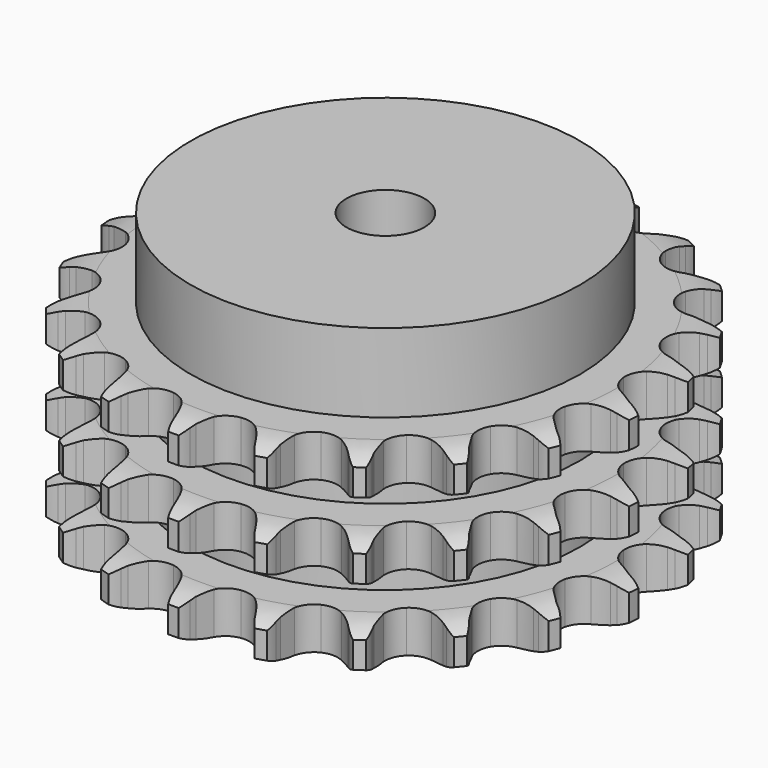
from build123d import *

# Parameters (mm, degrees)
PAD_DEPTH         = 49.8
SKETCH001_R       = 50
PAD001_DEPTH      = 70
SKETCH002_R       = 10
POCKET_DEPTH      = 0.001
POCKET_DEPTH_BACK = 70.001


with BuildPart() as part:
    # Sprocket → Pad (new body)
    with BuildSketch(Plane.XY):
        with BuildLine():
            ThreePointArc((-10.414973, 69.098829), (-8.724114, 67.329966), (-7.515976, 65.201991))
            Line((-7.515976, 65.201991), (-6.933334, 63.79702))
            ThreePointArc((-6.933334, 63.79702), (-5.997831, 61.908917), (-4.8188, 60.162498))
            ThreePointArc((-4.8188, 60.162498), (-2.682336, 58.425798), (0, 57.804771))
            ThreePointArc((0, 57.804771), (2.682336, 58.425798), (4.8188, 60.162498))
            ThreePointArc((4.8188, 60.162498), (5.997831, 61.908917), (6.933334, 63.79702))
            Line((6.933334, 63.79702), (7.515976, 65.201991))
            ThreePointArc((7.515976, 65.201991), (8.724114, 67.329966), (10.414973, 69.098829))
            ThreePointArc((10.414973, 69.098829), (11.50933, 66.910163), (12.036562, 64.520622))
            Line((12.036562, 64.520622), (12.179197, 63.006333))
            ThreePointArc((12.179197, 63.006333), (12.516609, 60.92637), (13.128493, 58.910013))
            ThreePointArc((13.128493, 58.910013), (14.658139, 56.620737), (17.038255, 55.236667))
            ThreePointArc((17.038255, 55.236667), (19.784474, 55.039472), (22.337922, 56.069281))
            Line((22.337922, 56.069281), (25.429807, 58.919061))
            ThreePointArc((25.429807, 58.919061), (25.901113, 59.516189), (26.400686, 60.089876))
            ThreePointArc((26.400686, 60.089876), (28.182382, 61.767207), (30.319502, 62.959095))
            ThreePointArc((30.319502, 62.959095), (30.720119, 60.545097), (30.519599, 58.106313))
            Line((30.519599, 58.106313), (30.209552, 56.617257))
            ThreePointArc((30.209552, 56.617257), (29.918894, 54.530247), (29.909262, 52.423115))
            ThreePointArc((29.909262, 52.423115), (30.696174, 49.784674), (32.562587, 47.760543))
            ThreePointArc((32.562587, 47.760543), (35.128674, 46.762646), (37.872221, 46.994062))
            Line((37.872221, 46.994062), (41.66673, 48.805885))
            ThreePointArc((41.66673, 48.805885), (42.293104, 49.237564), (42.93958, 49.638513))
            ThreePointArc((42.93958, 49.638513), (45.136522, 50.71616), (47.530011, 51.225169))
            ThreePointArc((47.530011, 51.225169), (47.201291, 48.800335), (46.290835, 46.529003))
            Line((46.290835, 46.529003), (45.555656, 45.19749))
            ThreePointArc((45.555656, 45.19749), (44.662754, 43.288872), (44.032462, 41.278194))
            ThreePointArc((44.032462, 41.278194), (44.006719, 38.525024), (45.19359, 36.040685))
            ThreePointArc((45.19359, 36.040685), (47.351538, 34.330755), (50.041408, 33.743214))
            Line((50.041408, 33.743214), (54.201381, 34.356093))
            ThreePointArc((54.201381, 34.356093), (54.927167, 34.583966), (55.663103, 34.77655))
            ThreePointArc((55.663103, 34.77655), (58.080084, 35.15876), (60.517269, 34.939662))
            ThreePointArc((60.517269, 34.939662), (59.488421, 32.719448), (57.948927, 30.817387))
            Line((57.948927, 30.817387), (56.85394, 29.761727))
            ThreePointArc((56.85394, 29.761727), (55.438132, 28.201091), (54.243185, 26.465523))
            ThreePointArc((54.243185, 26.465523), (53.407075, 23.842257), (53.808944, 21.118454))
            ThreePointArc((53.808944, 21.118454), (55.36701, 18.848425), (57.764195, 17.494134))
            Line((57.764195, 17.494134), (61.920002, 16.85361))
            ThreePointArc((61.920002, 16.85361), (62.68071, 16.857431), (63.440716, 16.824537))
            ThreePointArc((63.440716, 16.824537), (65.862975, 16.47735), (68.127303, 15.549612))
            ThreePointArc((68.127303, 15.549612), (66.489744, 13.731295), (64.458003, 12.367511))
            Line((64.458003, 12.367511), (63.100502, 11.681504))
            ThreePointArc((63.100502, 11.681504), (61.287589, 10.607519), (59.634162, 9.301275))
            ThreePointArc((59.634162, 9.301275), (58.061977, 7.041001), (57.643137, 4.319756))
            ThreePointArc((57.643137, 4.319756), (58.462879, 1.691329), (60.354381, -0.309377))
            Line((60.354381, -0.309377), (64.136759, -2.146389))
            ThreePointArc((64.136759, -2.146389), (64.864797, -2.366961), (65.581342, -2.622409))
            ThreePointArc((65.581342, -2.622409), (67.793652, -3.668145), (69.683927, -5.222088))
            ThreePointArc((69.683927, -5.222088), (67.583162, -6.476945), (65.239703, -7.181273))
            Line((65.239703, -7.181273), (63.740307, -7.436672))
            ThreePointArc((63.740307, -7.436672), (61.691375, -7.928577), (59.726382, -8.689432))
            ThreePointArc((59.726382, -8.689432), (57.557818, -10.385879), (56.355485, -12.862772))
            ThreePointArc((56.355485, -12.862772), (56.364066, -15.616048), (57.581815, -18.085398))
            Line((57.581815, -18.085398), (60.654683, -20.955673))
            ThreePointArc((60.654683, -20.955673), (61.285362, -21.381038), (61.894779, -21.836342))
            ThreePointArc((61.894779, -21.836342), (63.700565, -23.487709), (65.048828, -25.529784))
            ThreePointArc((65.048828, -25.529784), (62.671518, -26.109679), (60.224568, -26.091969))
            Line((60.224568, -26.091969), (58.716507, -25.894067))
            ThreePointArc((58.716507, -25.894067), (56.613611, -25.760184), (54.511652, -25.908046))
            ThreePointArc((54.511652, -25.908046), (51.939394, -26.889928), (50.0604, -28.902385))
            ThreePointArc((50.0604, -28.902385), (49.257058, -31.535871), (49.692851, -34.254452))
            Line((49.692851, -34.254452), (51.783173, -37.902953))
            ThreePointArc((51.783173, -37.902953), (52.260453, -38.495316), (52.708592, -39.110021))
            ThreePointArc((52.708592, -39.110021), (53.947404, -41.220288), (54.633855, -43.569046))
            ThreePointArc((54.633855, -43.569046), (52.191236, -43.422453), (49.858217, -42.684279))
            Line((49.858217, -42.684279), (48.475487, -42.05066))
            ThreePointArc((48.475487, -42.05066), (46.505479, -41.302886), (44.453321, -40.824615))
            ThreePointArc((44.453321, -40.824615), (41.705927, -41.004689), (39.317229, -42.373896))
            ThreePointArc((39.317229, -42.373896), (37.773344, -44.653593), (37.38846, -47.379848))
            Line((37.38846, -47.379848), (38.3105, -51.482389))
            ThreePointArc((38.3105, -51.482389), (38.591975, -52.189116), (38.839016, -52.908603))
            ThreePointArc((38.839016, -52.908603), (39.400779, -55.290262), (39.364425, -57.737007))
            ThreePointArc((39.364425, -57.737007), (37.073533, -56.876952), (35.061744, -55.483904))
            Line((35.061744, -55.483904), (33.927207, -54.470868))
            ThreePointArc((33.927207, -54.470868), (32.265132, -53.175646), (30.445118, -52.113739))
            ThreePointArc((30.445118, -52.113739), (27.766705, -51.476003), (25.08055, -52.080299))
            ThreePointArc((25.08055, -52.080299), (22.933302, -53.803648), (21.761941, -56.295337))
            Line((21.761941, -56.295337), (21.433772, -60.487389))
            ThreePointArc((21.433772, -60.487389), (21.494429, -61.245685), (21.518423, -62.006023))
            ThreePointArc((21.518423, -62.006023), (21.353222, -64.447455), (20.597292, -66.774781))
            ThreePointArc((20.597292, -66.774781), (18.661684, -65.277684), (17.149881, -63.35354))
            Line((17.149881, -63.35354), (16.364346, -62.0511))
            ThreePointArc((16.364346, -62.0511), (15.157886, -60.323516), (13.731733, -58.772328))
            ThreePointArc((13.731733, -58.772328), (11.36029, -57.373449), (8.615354, -57.159139))
            ThreePointArc((8.615354, -57.159139), (6.055537, -58.173012), (4.201777, -60.208737))
            Line((4.201777, -60.208737), (2.652558, -64.117819))
            ThreePointArc((2.652558, -64.117819), (2.48701, -64.860305), (2.285824, -65.593936))
            ThreePointArc((2.285824, -65.593936), (1.408338, -67.878208), (0, -69.879324))
            ThreePointArc((0, -69.879324), (-1.408338, -67.878208), (-2.285824, -65.593936))
            Line((-2.285824, -65.593936), (-2.652558, -64.117819))
            ThreePointArc((-2.652558, -64.117819), (-3.296205, -62.111376), (-4.201777, -60.208737))
            ThreePointArc((-4.201777, -60.208737), (-6.055537, -58.173012), (-8.615354, -57.159139))
            ThreePointArc((-8.615354, -57.159139), (-11.36029, -57.373449), (-13.731733, -58.772328))
            Line((-13.731733, -58.772328), (-16.364346, -62.0511))
            ThreePointArc((-16.364346, -62.0511), (-16.741392, -62.711802), (-17.149881, -63.35354))
            ThreePointArc((-17.149881, -63.35354), (-18.661684, -65.277684), (-20.597292, -66.774781))
            ThreePointArc((-20.597292, -66.774781), (-21.353222, -64.447455), (-21.518423, -62.006023))
            Line((-21.518423, -62.006023), (-21.433772, -60.487389))
            ThreePointArc((-21.433772, -60.487389), (-21.457413, -58.380369), (-21.761941, -56.295337))
            ThreePointArc((-21.761941, -56.295337), (-22.933302, -53.803648), (-25.08055, -52.080299))
            ThreePointArc((-25.08055, -52.080299), (-27.766705, -51.476003), (-30.445118, -52.113739))
            Line((-30.445118, -52.113739), (-33.927207, -54.470868))
            ThreePointArc((-33.927207, -54.470868), (-34.482247, -54.991081), (-35.061744, -55.483904))
            ThreePointArc((-35.061744, -55.483904), (-37.073533, -56.876952), (-39.364425, -57.737007))
            ThreePointArc((-39.364425, -57.737007), (-39.400779, -55.290262), (-38.839016, -52.908603))
            Line((-38.839016, -52.908603), (-38.3105, -51.482389))
            ThreePointArc((-38.3105, -51.482389), (-37.712036, -49.462009), (-37.38846, -47.379848))
            ThreePointArc((-37.38846, -47.379848), (-37.773344, -44.653593), (-39.317229, -42.373896))
            ThreePointArc((-39.317229, -42.373896), (-41.705927, -41.004689), (-44.453321, -40.824615))
            Line((-44.453321, -40.824615), (-48.475487, -42.05066))
            ThreePointArc((-48.475487, -42.05066), (-49.159203, -42.384161), (-49.858217, -42.684279))
            ThreePointArc((-49.858217, -42.684279), (-52.191236, -43.422453), (-54.633855, -43.569046))
            ThreePointArc((-54.633855, -43.569046), (-53.947404, -41.220288), (-52.708592, -39.110021))
            Line((-52.708592, -39.110021), (-51.783173, -37.902953))
            ThreePointArc((-51.783173, -37.902953), (-50.61578, -36.148733), (-49.692851, -34.254452))
            ThreePointArc((-49.692851, -34.254452), (-49.257058, -31.535871), (-50.0604, -28.902385))
            ThreePointArc((-50.0604, -28.902385), (-51.939394, -26.889928), (-54.511652, -25.908046))
            Line((-54.511652, -25.908046), (-58.716507, -25.894067))
            ThreePointArc((-58.716507, -25.894067), (-59.468148, -26.011222), (-60.224568, -26.091969))
            ThreePointArc((-60.224568, -26.091969), (-62.671518, -26.109679), (-65.048828, -25.529784))
            ThreePointArc((-65.048828, -25.529784), (-63.700565, -23.487709), (-61.894779, -21.836342))
            Line((-61.894779, -21.836342), (-60.654683, -20.955673))
            ThreePointArc((-60.654683, -20.955673), (-59.022089, -19.623483), (-57.581815, -18.085398))
            ThreePointArc((-57.581815, -18.085398), (-56.364066, -15.616048), (-56.355485, -12.862772))
            ThreePointArc((-56.355485, -12.862772), (-57.557818, -10.385879), (-59.726382, -8.689432))
            Line((-59.726382, -8.689432), (-63.740307, -7.436672))
            ThreePointArc((-63.740307, -7.436672), (-64.493088, -7.327072), (-65.239703, -7.181273))
            ThreePointArc((-65.239703, -7.181273), (-67.583162, -6.476945), (-69.683927, -5.222088))
            ThreePointArc((-69.683927, -5.222088), (-67.793652, -3.668145), (-65.581342, -2.622409))
            Line((-65.581342, -2.622409), (-64.136759, -2.146389))
            ThreePointArc((-64.136759, -2.146389), (-62.184026, -1.354601), (-60.354381, -0.309377))
            ThreePointArc((-60.354381, -0.309377), (-58.462879, 1.691329), (-57.643137, 4.319756))
            ThreePointArc((-57.643137, 4.319756), (-58.061977, 7.041001), (-59.634162, 9.301275))
            Line((-59.634162, 9.301275), (-63.100502, 11.681504))
            ThreePointArc((-63.100502, 11.681504), (-63.787533, 12.00812), (-64.458003, 12.367511))
            ThreePointArc((-64.458003, 12.367511), (-66.489744, 13.731295), (-68.127303, 15.549612))
            ThreePointArc((-68.127303, 15.549612), (-65.862975, 16.47735), (-63.440716, 16.824537))
            Line((-63.440716, 16.824537), (-61.920002, 16.85361))
            ThreePointArc((-61.920002, 16.85361), (-59.82064, 17.034644), (-57.764195, 17.494134))
            ThreePointArc((-57.764195, 17.494134), (-55.36701, 18.848425), (-53.808944, 21.118454))
            ThreePointArc((-53.808944, 21.118454), (-53.407075, 23.842257), (-54.243185, 26.465523))
            Line((-54.243185, 26.465523), (-56.85394, 29.761727))
            ThreePointArc((-56.85394, 29.761727), (-57.414177, 30.276339), (-57.948927, 30.817387))
            ThreePointArc((-57.948927, 30.817387), (-59.488421, 32.719448), (-60.517269, 34.939662))
            ThreePointArc((-60.517269, 34.939662), (-58.080084, 35.15876), (-55.663103, 34.77655))
            Line((-55.663103, 34.77655), (-54.201381, 34.356093))
            ThreePointArc((-54.201381, 34.356093), (-52.141927, 33.910285), (-50.041408, 33.743214))
            ThreePointArc((-50.041408, 33.743214), (-47.351538, 34.330755), (-45.19359, 36.040685))
            ThreePointArc((-45.19359, 36.040685), (-44.006719, 38.525024), (-44.032462, 41.278194))
            Line((-44.032462, 41.278194), (-45.555656, 45.19749))
            ThreePointArc((-45.555656, 45.19749), (-45.939318, 45.854372), (-46.290835, 46.529003))
            ThreePointArc((-46.290835, 46.529003), (-47.201291, 48.800335), (-47.530011, 51.225169))
            ThreePointArc((-47.530011, 51.225169), (-45.136522, 50.71616), (-42.93958, 49.638513))
            Line((-42.93958, 49.638513), (-41.66673, 48.805885))
            ThreePointArc((-41.66673, 48.805885), (-39.830176, 47.772849), (-37.872221, 46.994062))
            ThreePointArc((-37.872221, 46.994062), (-35.128674, 46.762646), (-32.562587, 47.760543))
            ThreePointArc((-32.562587, 47.760543), (-30.696174, 49.784674), (-29.909262, 52.423115))
            Line((-29.909262, 52.423115), (-30.209552, 56.617257))
            ThreePointArc((-30.209552, 56.617257), (-30.38255, 57.358042), (-30.519599, 58.106313))
            ThreePointArc((-30.519599, 58.106313), (-30.720119, 60.545097), (-30.319502, 62.959095))
            ThreePointArc((-30.319502, 62.959095), (-28.182382, 61.767207), (-26.400686, 60.089876))
            Line((-26.400686, 60.089876), (-25.429807, 58.919061))
            ThreePointArc((-25.429807, 58.919061), (-23.979338, 57.390586), (-22.337922, 56.069281))
            ThreePointArc((-22.337922, 56.069281), (-19.784474, 55.039472), (-17.038255, 55.236667))
            ThreePointArc((-17.038255, 55.236667), (-14.658139, 56.620737), (-13.128493, 58.910013))
            Line((-13.128493, 58.910013), (-12.179197, 63.006333))
            ThreePointArc((-12.179197, 63.006333), (-12.126159, 63.765199), (-12.036562, 64.520622))
            ThreePointArc((-12.036562, 64.520622), (-11.50933, 66.910163), (-10.414973, 69.098829))
        make_face()
    extrude(amount=PAD_DEPTH)

    # Sketch → Groove (revolve, cut)
    with BuildSketch(Plane.XZ):
        with BuildLine():
            ThreePointArc((59.514719, 0), (63.873618, 0.506758), (68, 2))
            Line((68, 2), (68, 8.8))
            ThreePointArc((68, 8.8), (63.873618, 10.293242), (59.514719, 10.8))
            Line((50, 10.8), (59.514719, 10.8))
            Line((50, 10.8), (50, 19.5))
            Line((50, 19.5), (59.514719, 19.5))
            ThreePointArc((59.514719, 19.5), (63.873618, 20.006758), (68, 21.5))
            Line((68, 28.3), (68, 21.5))
            ThreePointArc((68, 28.3), (63.873618, 29.793242), (59.514719, 30.3))
            Line((50, 30.3), (59.514719, 30.3))
            Line((50, 39), (50, 30.3))
            Line((59.514719, 39), (50, 39))
            ThreePointArc((59.514719, 39), (63.873618, 39.506758), (68, 41))
            Line((68, 41), (68, 47.8))
            ThreePointArc((68, 47.8), (63.873618, 49.293242), (59.514719, 49.8))
            Line((59.514719, 49.8), (78, 49.8))
            Line((78, 49.8), (78, 0))
            Line((59.514719, 0), (78, 0))
        make_face()
    revolve(axis=Axis((0, 0, 0), (0, 0, 1)), mode=Mode.SUBTRACT)

    # Sketch001 → Pad001 (join)
    with BuildSketch(Plane.XY):
        Circle(SKETCH001_R)
    extrude(amount=PAD001_DEPTH)

    # Sketch002 → Pocket (cut, two sides)
    with BuildSketch(Plane.XY) as pocket_sk:
        Circle(SKETCH002_R)
    extrude(amount=-POCKET_DEPTH, mode=Mode.SUBTRACT)
    extrude(pocket_sk.sketch, amount=POCKET_DEPTH_BACK, mode=Mode.SUBTRACT)


solid = part.part
